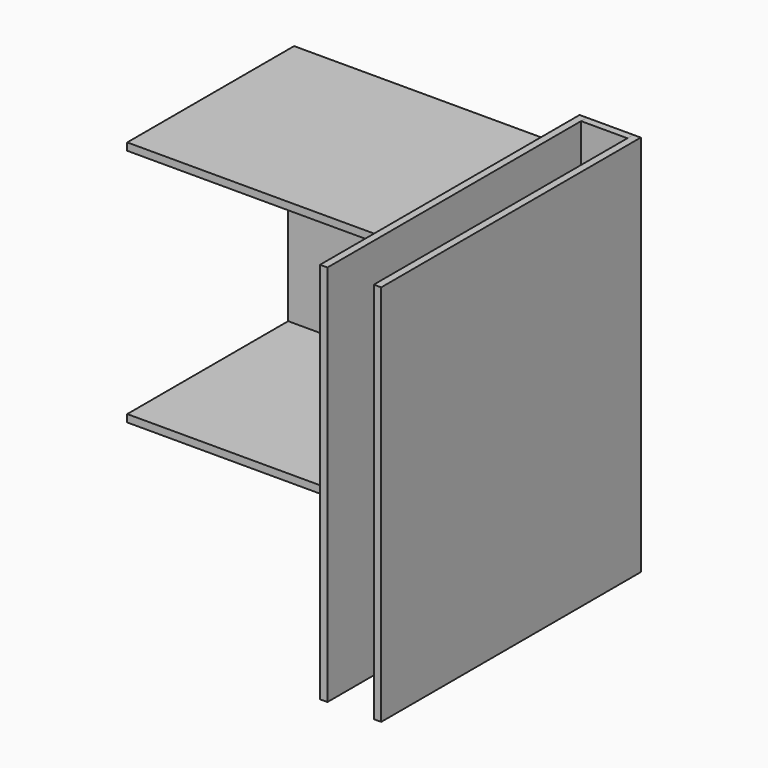
from build123d import *

# Parameters (mm, degrees)
F1_DEPTH = 450
F0_W     = 600
F0_H     = 500
F2_DEPTH = 16
F0_W_2   = 16
F0_H_2   = 825.460493
F3_DEPTH = 700
F0_W_3   = 100
F4_DEPTH = 16


with BuildPart() as f1:
    # F0 (on Front) → F1 (new body)
    with BuildSketch(Plane.XZ):
        Polygon((-3103.463992, 2295.420257), (-3103.463992, 2279.420257), (-2503.463992, 2279.420257), (-2503.463992, 1779.420257), (-3103.463992, 1779.420257), (-3103.463992, 1763.420257), (-2487.463992, 1763.420257), (-2487.463992, 2295.420257), align=None)
    extrude(amount=F1_DEPTH)

    # F0 (on Front) → F2 (join)
    with BuildSketch(Plane.XZ):
        with Locations((-2803.463992, 2029.420257)):
            Rectangle(F0_W, F0_H)
    extrude(amount=F2_DEPTH)


with BuildPart() as f3:
    # F0 (on Front) → F3 (new body)
    with BuildSketch(Plane.XZ):
        Polygon((-2487.463992, 2364.92604), (-2487.463992, 2295.420257), (-2487.463992, 1763.420257), (-2487.463992, 1539.465547), (-2471.463992, 1539.465547), (-2471.463992, 2364.92604), align=None)
        with Locations((-2363.463992, 1952.195794)):
            Rectangle(F0_W_2, F0_H_2)
    extrude(amount=F3_DEPTH)


with BuildPart() as f4:
    # F0 (on Front) → F4 (new body)
    with BuildSketch(Plane.XZ):
        with Locations((-2421.463992, 1952.195794)):
            Rectangle(F0_W_3, F0_H_2)
    extrude(amount=F4_DEPTH)


solid = Compound([f1.part, f3.part, f4.part])
